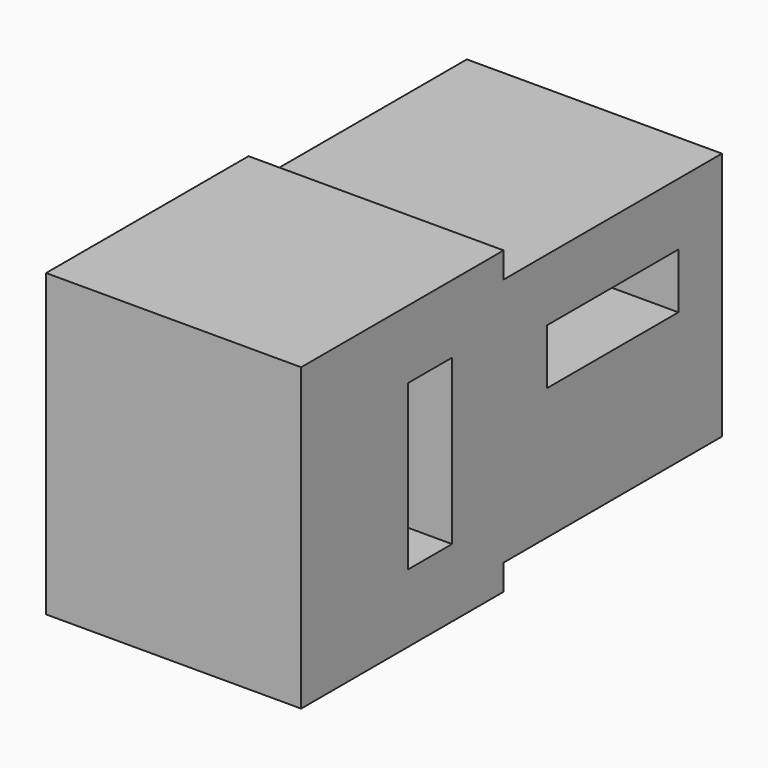
from build123d import *

# Parameters (mm, degrees)
PAD039_DEPTH    = 6.45
SKETCH105_W     = 1.4
SKETCH105_H     = 4.15
SKETCH105_W_2   = 4.15
SKETCH105_H_2   = 1.4
POCKET054_DEPTH = 3
SKETCH106_W     = 1.2
SKETCH106_H     = 4.1
SKETCH106_W_2   = 4.1
SKETCH106_H_2   = 1.2
POCKET055_DEPTH = 3.5


with BuildPart() as part:
    # Sketch104 → Pad039 (new body)
    with BuildSketch(Plane.YZ):
        Polygon((-6.4, 7.6), (0, 7.6), (0, 6.95), (6.9, 6.95), (6.9, 0.65), (0, 0.65), (0, 0), (-6.4, 0), align=None)
    extrude(amount=PAD039_DEPTH)

    # Sketch105 (on Face10 of Pad039) → Pocket054 (cut)
    with BuildSketch(Plane.YZ.offset(6.45)):
        with Locations((-2.33, 3.8)):
            Rectangle(SKETCH105_W, SKETCH105_H)
        with Locations((3.45, 4.675)):
            Rectangle(SKETCH105_W_2, SKETCH105_H_2)
    extrude(amount=-POCKET054_DEPTH, mode=Mode.SUBTRACT)

    # Sketch106 (on Face19 of Pocket054) → Pocket055 (cut)
    with BuildSketch(Plane.YZ.offset(3.45)):
        with Locations((-2.43, 3.8)):
            Rectangle(SKETCH106_W, SKETCH106_H)
        with Locations((3.45, 4.775)):
            Rectangle(SKETCH106_W_2, SKETCH106_H_2)
    extrude(amount=-POCKET055_DEPTH, mode=Mode.SUBTRACT)


solid = part.part
